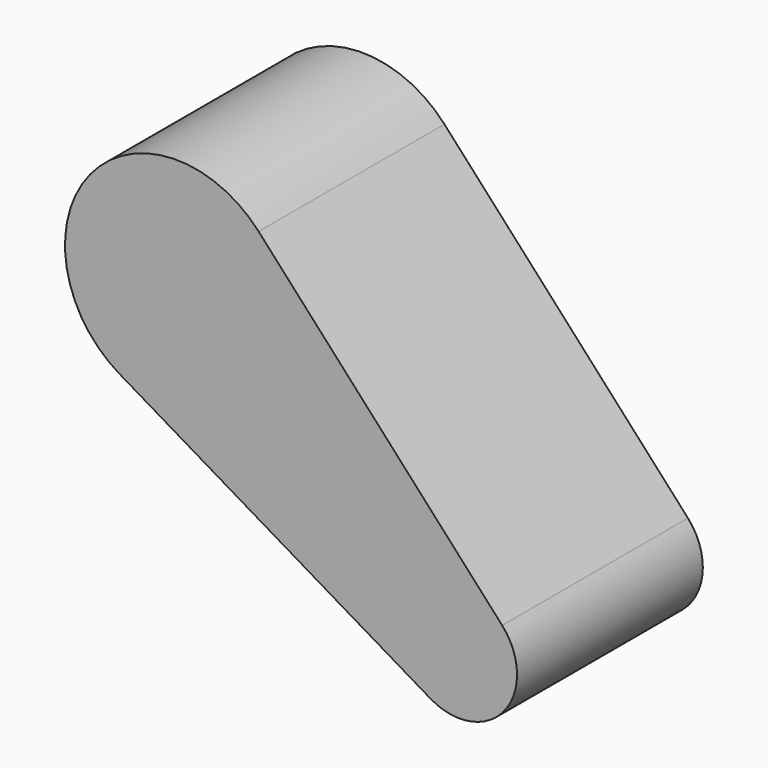
from build123d import *

# Parameters (mm, degrees)
F1_DEPTH = 25.4


with BuildPart() as f1:
    # F0 (on Front) → F1 (new body)
    with BuildSketch(Plane.XZ):
        with BuildLine():
            Line((7.837642, 2.696551), (-18.790249, 31.955323))
            ThreePointArc((-18.790249, 31.955323), (-37.227962, 31.456385), (-34.012207, 13.294415))
            Line((-34.012207, 13.294415), (0, -6.911773))
            ThreePointArc((0, -6.911773), (8.059036, -5.484841), (7.837642, 2.696551))
        make_face()
        with BuildLine():
            Line((7.837642, 2.696551), (-18.790249, 31.955323))
            ThreePointArc((-18.790249, 31.955323), (-37.227962, 31.456385), (-34.012207, 13.294415))
            Line((-34.012207, 13.294415), (0, -6.911773))
            ThreePointArc((0, -6.911773), (8.059036, -5.484841), (7.837642, 2.696551))
        make_face()
        with BuildLine():
            Line((7.837642, 2.696551), (-18.790249, 31.955323))
            ThreePointArc((-18.790249, 31.955323), (-37.227962, 31.456385), (-34.012207, 13.294415))
            Line((-34.012207, 13.294415), (0, -6.911773))
            ThreePointArc((0, -6.911773), (8.059036, -5.484841), (7.837642, 2.696551))
        make_face()
    extrude(amount=F1_DEPTH)


solid = f1.part
